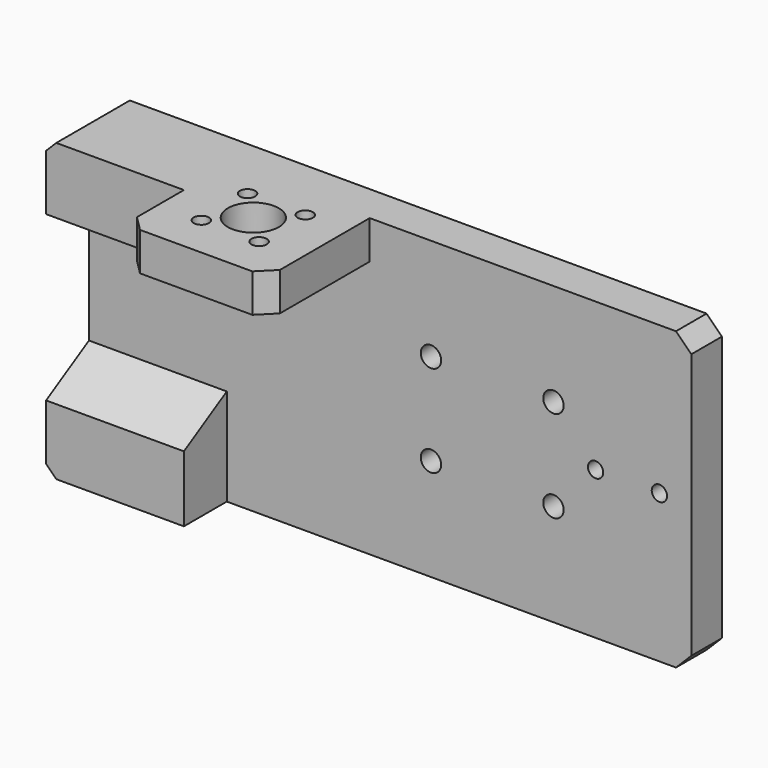
from build123d import *

# Parameters (mm, degrees)
PAD_DEPTH       = 58
SKETCH001_R     = 4
POCKET_DEPTH    = 25
SKETCH002_W     = 28
SKETCH002_H     = 25
POCKET001_DEPTH = 50.5
SKETCH003_R     = 5
SKETCH003_R_2   = 1.5
POCKET002_DEPTH = 58.001
POCKET003_DEPTH = 27
SKETCH005_R     = 2
SKETCH005_R_2   = 1.5
POCKET004_DEPTH = 7.501
CHAMFER_SIZE    = 2
CHAMFER001_SIZE = 3
CHAMFER002_SIZE = 3


with BuildPart() as part:
    # Sketch → Pad (new body)
    with BuildSketch(Plane.XY):
        Polygon((0, 32.5), (0, 14.5), (27, 14.5), (27, 0), (55, 0), (55, 25), (118, 25), (118, 32.5), align=None)
    extrude(amount=PAD_DEPTH)

    # Sketch001 (on Face1 of Pad) → Pocket (cut)
    with BuildSketch(Plane(origin=(0, 0, 0), x_dir=(0, -1, 0), z_dir=(-1, 0, 0))):
        with Locations((-23.5, 49)):
            Circle(SKETCH001_R)
        with Locations((-23.5, 9)):
            Circle(SKETCH001_R)
    extrude(amount=-POCKET_DEPTH, mode=Mode.SUBTRACT)

    # Sketch002 (on Face3 of Pocket) → Pocket001 (cut)
    with BuildSketch(Plane(origin=(0, 0, 0), x_dir=(1, 0, 0), z_dir=(0, 0, -1))):
        with Locations((41, -12.5)):
            Rectangle(SKETCH002_W, SKETCH002_H)
    extrude(amount=-POCKET001_DEPTH, mode=Mode.SUBTRACT)

    # Sketch003 (on Face4 of Pocket001) → Pocket002 (cut, through all)
    with BuildSketch(Plane.XY.offset(58)):
        with Locations((41, 14)):
            Circle(SKETCH003_R)
        with Locations((35.343146, 19.656854)):
            Circle(SKETCH003_R_2)
        with Locations((46.656854, 19.656854)):
            Circle(SKETCH003_R_2)
        with Locations((46.656854, 8.343146)):
            Circle(SKETCH003_R_2)
        with Locations((35.343146, 8.343146)):
            Circle(SKETCH003_R_2)
    extrude(amount=-POCKET002_DEPTH, mode=Mode.SUBTRACT)

    # Sketch004 (on Face1 of Pocket002) → Pocket003 (cut)
    with BuildSketch(Plane(origin=(0, 0, 0), x_dir=(0, -1, 0), z_dir=(-1, 0, 0))):
        Polygon((-14.5, 45.062178), (-14.5, 12.937822), (-25, 19), (-25, 39), align=None)
    extrude(amount=-POCKET003_DEPTH, mode=Mode.SUBTRACT)

    # Sketch005 (on Face13 of Pocket003) → Pocket004 (cut, through all)
    with BuildSketch(Plane.XZ.offset(-25)):
        with Locations((67, 38)):
            Circle(SKETCH005_R)
        with Locations((91, 38)):
            Circle(SKETCH005_R)
        with Locations((91, 20)):
            Circle(SKETCH005_R)
        with Locations((67, 20)):
            Circle(SKETCH005_R)
        with Locations((99.25, 29)):
            Circle(SKETCH005_R_2)
        with Locations((111.75, 29)):
            Circle(SKETCH005_R_2)
    extrude(amount=-POCKET004_DEPTH, mode=Mode.SUBTRACT)

    # Chamfer
    chamfer_edges = [part.edges().sort_by_distance(p)[0] for p in [
        (0, 23.5, 58),
        (0, 23.5, 0),
    ]]
    chamfer(chamfer_edges, length=CHAMFER_SIZE)

    # Chamfer001
    chamfer001_edges = [part.edges().sort_by_distance(p)[0] for p in [
        (27, 0, 54.25),
        (55, 0, 54.25),
    ]]
    chamfer(chamfer001_edges, length=CHAMFER001_SIZE)

    # Chamfer002
    chamfer002_edges = [part.edges().sort_by_distance(p)[0] for p in [
        (118, 28.75, 0),
        (118, 28.75, 58),
    ]]
    chamfer(chamfer002_edges, length=CHAMFER002_SIZE)


solid = part.part
